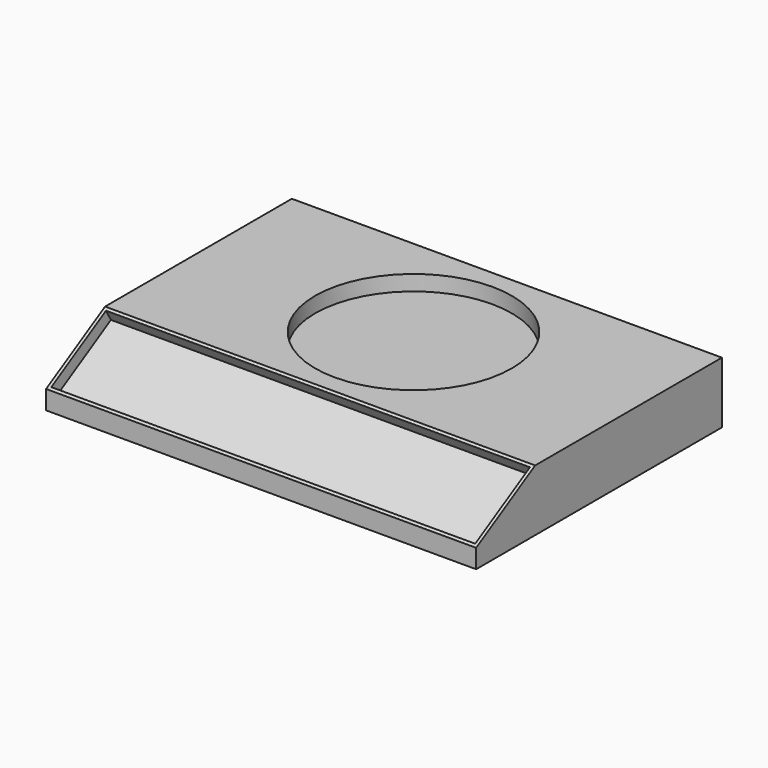
from build123d import *

# Parameters (mm, degrees)
F0_W     = 70
F0_H     = 50
F1_DEPTH = 10
F2_SIZE2 = 6.9282032303
F2_SIZE  = 12
F3_R     = 16
F4_DEPTH = 2.5
F5_W     = 69
F5_H     = 12.8564064606
F6_DEPTH = 2


with BuildPart() as f1:
    # F0 (on Top) → F1 (new body)
    with BuildSketch(Plane.XY):
        with Locations((5.1442100421, 5.2647431195)):
            Rectangle(F0_W, F0_H)
    extrude(amount=F1_DEPTH)

    # F2
    f2_edges = [f1.edges().sort_by_distance(p)[0] for p in [
        (5.14421, -19.735257, 10),
    ]]
    f2_side = f1.faces().sort_by_distance((5.14421, 5.264743, 10))[0]
    chamfer(f2_edges, length=F2_SIZE, length2=F2_SIZE2, reference=f2_side)

    # F3 (on face) → F4 (cut)
    with BuildSketch(Plane.XY.offset(10)):
        with Locations((5.1442100421, 11.2647431195)):
            Circle(F3_R)
    extrude(amount=-F4_DEPTH, mode=Mode.SUBTRACT)

    # F5 (on face) → F6 (cut)
    with BuildSketch(Plane(origin=(0, -6.2639412391, 10.8494644817), x_dir=(1, 0, 0), z_dir=(0, -0.5, 0.8660254038))):
        with Locations((5.1442100421, -8.6271321936)):
            Rectangle(F5_W, F5_H)
    extrude(amount=-F6_DEPTH, mode=Mode.SUBTRACT)


solid = f1.part
